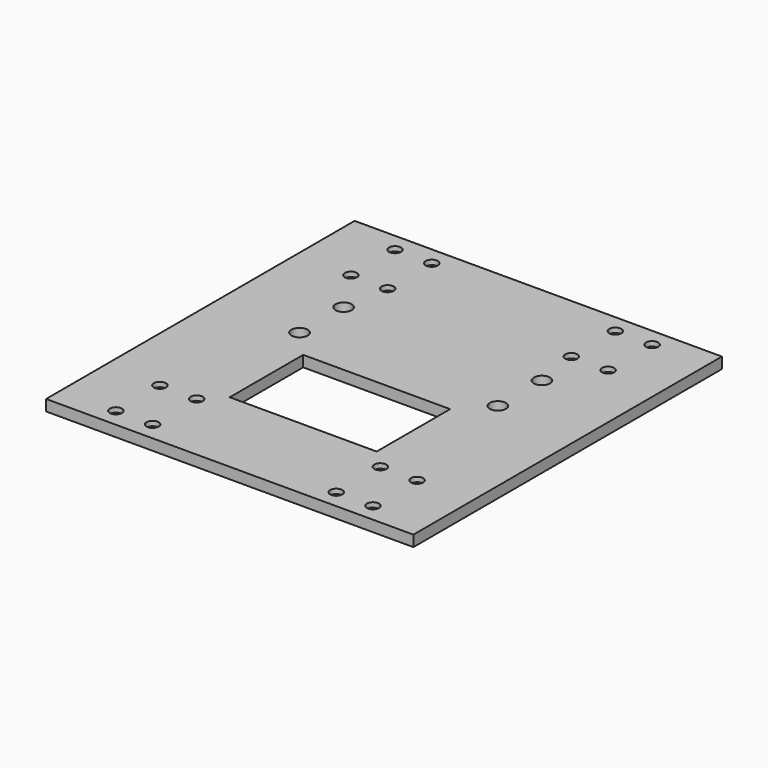
from build123d import *

# Parameters (mm, degrees)
F0_W           = 100
F0_H           = 105
F0_W_2         = 40
F0_H_2         = 25
F1_DEPTH       = 3
F2_D           = 3.3
F2_CSINK_D     = 6.72
F2_CSINK_ANGLE = 90
F3_D           = 4.4


with BuildPart() as f1:
    # F0 (on Top) → F1 (new body)
    with BuildSketch(Plane.XY):
        Rectangle(F0_W, F0_H)
        with Locations((0, -15)):
            Rectangle(F0_W_2, F0_H_2, mode=Mode.SUBTRACT)
    extrude(amount=F1_DEPTH)

    # F2 (through all)
    with Locations(Plane(origin=(0, 0, 0), x_dir=(1, 0, 0), z_dir=(0, 0, -1))):
        with Locations((-35, -32.5), (-25, -32.5), (-25, -47.5), (-35, -47.5), (25, -47.5), (25, -32.5), (35, -32.5), (35, -47.5), (25, 32.5), (35, 32.5), (35, 47.5), (25, 47.5), (-25, 47.5), (-35, 47.5), (-35, 32.5), (-25, 32.5)):
            CounterSinkHole(F2_D / 2, F2_CSINK_D / 2, counter_sink_angle=F2_CSINK_ANGLE)

    # F3 (through all)
    with Locations(Plane(origin=(0, 0, 0), x_dir=(1, 0, 0), z_dir=(0, 0, -1))):
        with Locations((27, -5), (27, -20), (-27, -5), (-27, -20)):
            Hole(F3_D / 2)


solid = f1.part
